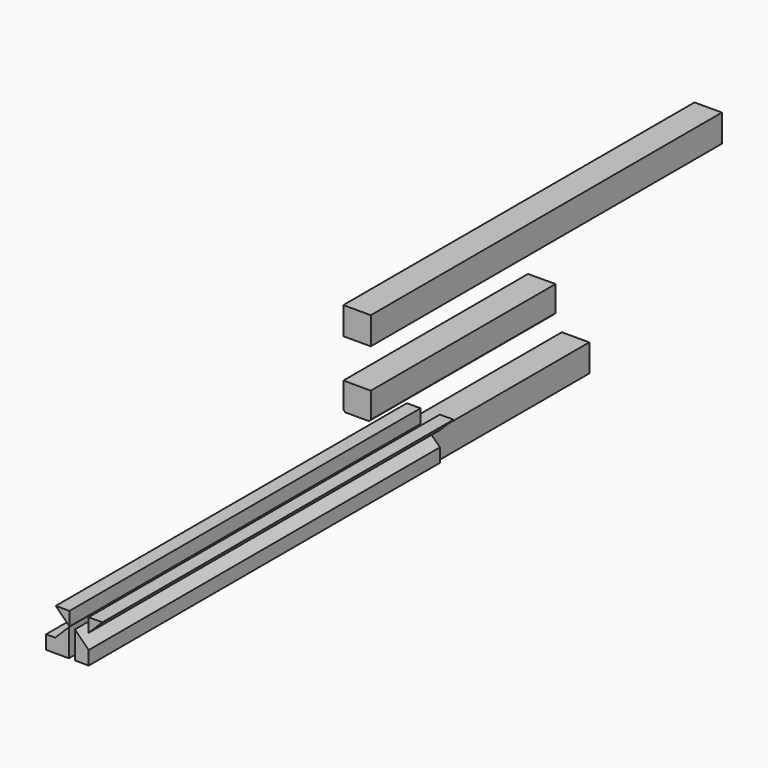
from build123d import *

# Parameters (mm, degrees)
F0_W      = 320.675
F0_H      = 38.1
F1_DEPTH  = 38.1
F2_SIZE   = 2.54
F3_W      = 609.6
F3_H      = 38.1
F4_DEPTH  = 38.1
F5_W      = 279.4
F5_H      = 38.1
F6_DEPTH  = 38.1
F7_W      = 19.05
F7_H      = 19.05
F8_DEPTH  = 609.6
F9_W      = 12.7
F9_H      = 19.05
F10_DEPTH = 609.6
F12_DEPTH = 609.6
F14_DEPTH = 609.6


with BuildPart() as f1:
    # F0 (on Right) → F1 (new body)
    with BuildSketch(Plane.YZ):
        with Locations((160.3375, 19.05)):
            Rectangle(F0_W, F0_H)
    extrude(amount=F1_DEPTH)

    # F2
    f2_edges = [f1.edges().sort_by_distance(p)[0] for p in [
        (38.1, 160.3375, 0),
        (0, 160.3375, 0),
    ]]
    chamfer(f2_edges, length=F2_SIZE)


with BuildPart() as f4:
    # F3 (on Right) → F4 (new body)
    with BuildSketch(Plane.YZ):
        with Locations((304.8, 111.315129)):
            Rectangle(F3_W, F3_H)
    extrude(amount=F4_DEPTH)


with BuildPart() as f6:
    # F5 (on Right) → F6 (new body)
    with BuildSketch(Plane.YZ):
        with Locations((239.591385, -76.047654)):
            Rectangle(F5_W, F5_H)
    extrude(amount=F6_DEPTH)


with BuildPart() as f8:
    # F7 (on Front) → F8 (new body)
    with BuildSketch(Plane.XZ):
        Polygon((114.986017, 19.05), (114.986017, 0), (134.036017, 0), align=None)
        with Locations((124.511017, -9.525)):
            Rectangle(F7_W, F7_H)
    extrude(amount=F8_DEPTH)


with BuildPart() as f10:
    # F9 (on Front) → F10 (new body)
    with BuildSketch(Plane.XZ):
        Polygon((87.538339, 0), (87.538339, -19.05), (106.588339, -19.05), (106.588339, 0), (106.588339, 19.05), align=None)
        with Locations((81.188339, -9.525)):
            Rectangle(F9_W, F9_H)
    extrude(amount=F10_DEPTH)


with BuildPart() as f12:
    # F11 (on Front) → F12 (new body)
    with BuildSketch(Plane.XZ):
        Polygon((107.300756, 39.11522), (88.250756, 39.11522), (107.300756, 20.06522), align=None)
    extrude(amount=F12_DEPTH)


with BuildPart() as f14:
    # F13 (on Front) → F14 (new body)
    with BuildSketch(Plane.XZ):
        Polygon((153.033672, 40.065681), (133.983672, 40.065681), (133.983672, 21.015681), align=None)
    extrude(amount=F14_DEPTH)


solid = Compound([f1.part, f4.part, f6.part, f8.part, f10.part, f12.part, f14.part])
